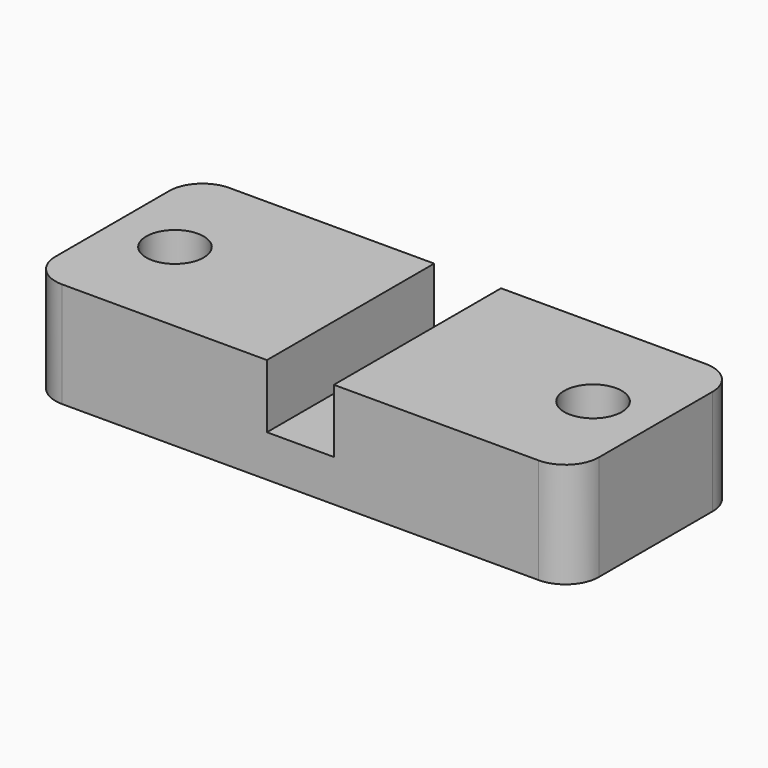
from build123d import *

# Parameters (mm, degrees)
F1_DEPTH = 31.75
F2_R     = 5.08
F4_D     = 8.73252


with BuildPart() as f1:
    # F0 (on Front) → F1 (new body)
    with BuildSketch(Plane.XZ):
        Polygon((0, -6.35), (0, 0), (-5.08, 0), (-5.08, 9.652), (-41.275, 9.652), (-41.275, 0), (-41.275, -6.35), align=None)
    extrude(amount=F1_DEPTH)

    # F2
    f2_edges = [f1.edges().sort_by_distance(p)[0] for p in [
        (-41.275, -31.75, 1.651),
        (-41.275, 0, 1.651),
    ]]
    fillet(f2_edges, radius=F2_R)

    # F4 (through all)
    with Locations(Plane(origin=(0, 0, -6.35), x_dir=(1, 0, 0), z_dir=(0, 0, -1))):
        with Locations((-31.75, 15.875)):
            Hole(F4_D / 2)

    # F5: F1 across plane


with BuildPart() as f1_1:
    add(f1.part)
    add(f1.part.mirror(Plane.YZ))


solid = f1_1.part
